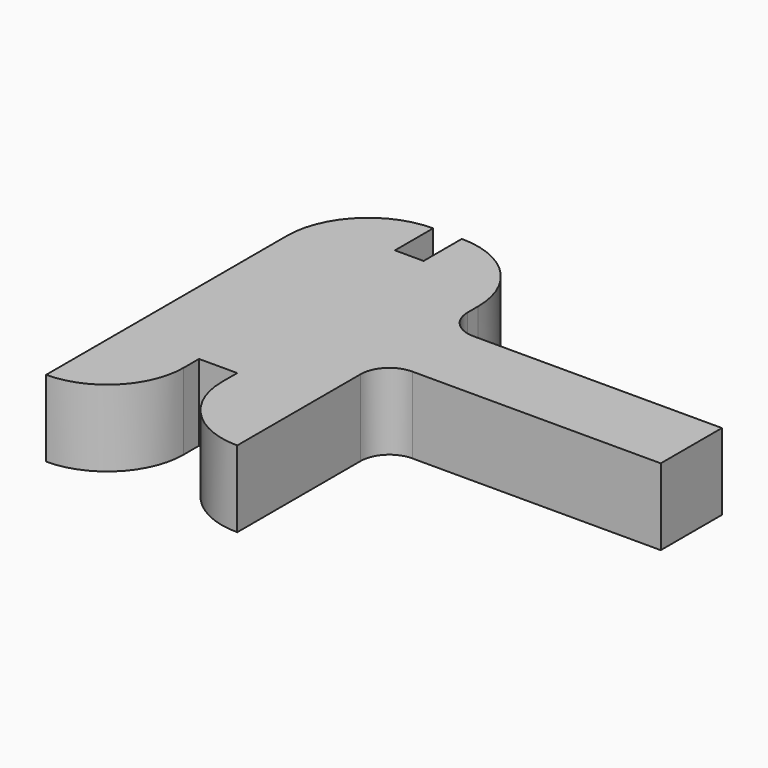
from build123d import *

# Parameters (mm, degrees)
F1_DEPTH = 8


with BuildPart() as f1:
    # F0 (on Top) → F1 (new body)
    with BuildSketch(Plane.XY):
        with BuildLine():
            Line((24.5, -0.858), (24.5, 7.142))
            Line((24.5, 7.142), (-1.5, 7.142))
            ThreePointArc((-1.5, 7.142), (-3.62132, 8.02068), (-4.5, 10.142))
            Line((-4.5, 10.142), (-4.5, 11.5))
            ThreePointArc((-4.5, 11.5), (-6.989592, 17.510408), (-13, 20))
            Line((-13, 20), (-13, 15))
            Line((-13, 15), (-16, 15))
            Line((-16, 15), (-16, 20))
            ThreePointArc((-16, 20), (-22.010408, 17.510408), (-24.5, 11.5))
            Line((-24.5, 11.5), (-24.5, -20))
            ThreePointArc((-24.5, -20), (-18.843146, -17.656854), (-16.5, -12))
            Line((-16.5, -12), (-16.5, -10))
            Line((-16.5, -10), (-12.5, -10))
            Line((-12.5, -10), (-12.5, -12))
            ThreePointArc((-12.5, -12), (-10.156854, -17.656854), (-4.5, -20))
            Line((-4.5, -20), (-4.5, -3.858))
            ThreePointArc((-4.5, -3.858), (-3.62132, -1.73668), (-1.5, -0.858))
            Line((-1.5, -0.858), (24.5, -0.858))
        make_face()
    extrude(amount=F1_DEPTH)


solid = f1.part
